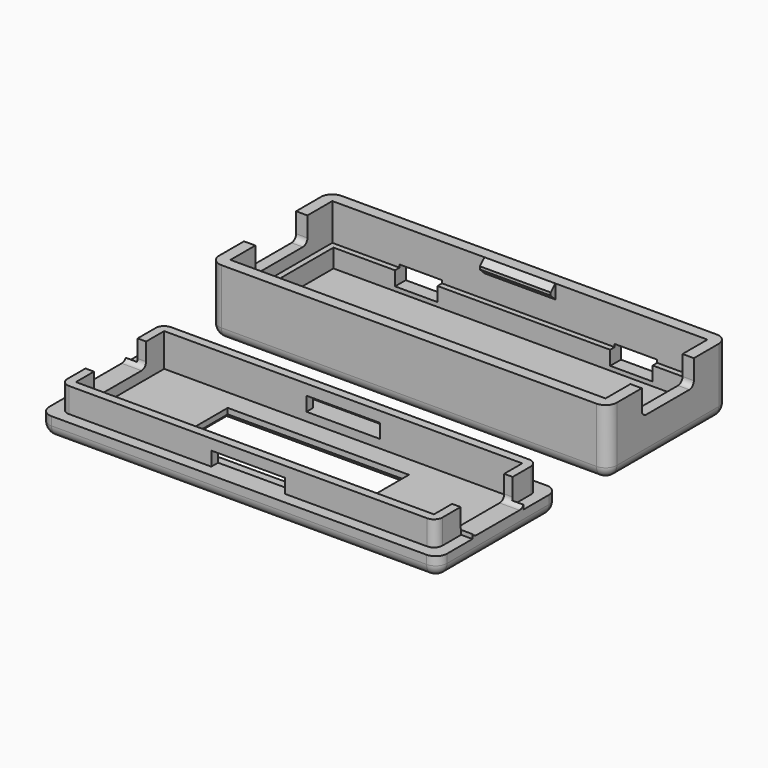
from build123d import *

# Parameters (mm, degrees)
BOX009_W        = 6
BOX009_H        = 10
BOX009_DEPTH    = 2.4
BOX006_W        = 10
BOX006_H        = 9.2
BOX006_DEPTH    = 4
FILLET002_R     = 0.8
BOX019_W        = 10
BOX019_H        = 9.2
BOX019_DEPTH    = 4.6
FILLET003_R     = 0.8
BOX008_W        = 6
BOX008_H        = 10
BOX008_DEPTH    = 2.4
BOX003_W        = 51.4
BOX003_H        = 16.4
BOX003_DEPTH    = 2.6
BOX002_W        = 53
BOX002_H        = 18
BOX002_DEPTH    = 2.6
BOX004_W        = 10
BOX004_H        = 1
BOX004_DEPTH    = 2
CHAMFER_SIZE    = 0.8
BOX005_W        = 10
BOX005_H        = 1
BOX005_DEPTH    = 2
CHAMFER001_SIZE = 0.8
BOX001_W        = 53
BOX001_H        = 18
BOX001_DEPTH    = 9.4
BOX_W           = 56.2
BOX_H           = 21.2
BOX_DEPTH       = 9.4
FILLET_R        = 1.6
CHAMFER002_SIZE = 0.5
BOX017_W        = 10.4
BOX017_H        = 5
BOX017_DEPTH    = 2
BOX018_W        = 10.4
BOX018_H        = 5
BOX018_DEPTH    = 2
BOX020_W        = 10
BOX020_H        = 9.2
BOX020_DEPTH    = 4.6
FILLET004_R     = 0.8
BOX021_W        = 10
BOX021_H        = 9.2
BOX021_DEPTH    = 4.6
FILLET005_R     = 0.8
BOX014_W        = 25.6
BOX014_H        = 9.8
BOX014_DEPTH    = 1.6
BOX013_W        = 50.6
BOX013_H        = 15.6
BOX013_DEPTH    = 4.8
BOX012_W        = 53
BOX012_H        = 18
BOX012_DEPTH    = 4.7
BOX022_W        = 1.6
BOX022_H        = 9
BOX022_DEPTH    = 3
BOX023_W        = 1.6
BOX023_H        = 9
BOX023_DEPTH    = 3
BOX011_W        = 53
BOX011_H        = 18
BOX011_DEPTH    = 9.4
BOX010_W        = 56.2
BOX010_H        = 21.2
BOX010_DEPTH    = 2.8
FILLET001_R     = 1.6
CHAMFER003_SIZE = 0.8
FILLET006_R     = 1.2


with BuildPart() as button2:
    # Box009 → Box009 (new body)
    with BuildSketch(Plane(origin=(39.9, 14, 2.2), x_dir=(1, 0, 0), z_dir=(0, 0, 1))):
        with Locations((3, 5)):
            Rectangle(BOX009_W, BOX009_H)
    extrude(amount=BOX009_DEPTH)


with BuildPart() as usb_buchse1:
    # Box006 → Box006 (new body)
    with BuildSketch(Plane(origin=(-5, 4.4, 5.8), x_dir=(1, 0, 0), z_dir=(0, 0, 1))):
        with Locations((5, 4.6)):
            Rectangle(BOX006_W, BOX006_H)
    extrude(amount=BOX006_DEPTH)

    # Fillet002
    fillet002_edges = [usb_buchse1.edges().sort_by_distance(p)[0] for p in [
        (0, 4.4, 5.8),
        (0, 13.6, 5.8),
    ]]
    fillet(fillet002_edges, radius=FILLET002_R)


with BuildPart() as usb_buchse2:
    # Box019 → Box019 (new body)
    with BuildSketch(Plane(origin=(47, 4.4, 5.8), x_dir=(1, 0, 0), z_dir=(0, 0, 1))):
        with Locations((5, 4.6)):
            Rectangle(BOX019_W, BOX019_H)
    extrude(amount=BOX019_DEPTH)

    # Fillet003
    fillet003_edges = [usb_buchse2.edges().sort_by_distance(p)[0] for p in [
        (52, 4.4, 5.8),
        (52, 13.6, 5.8),
    ]]
    fillet(fillet003_edges, radius=FILLET003_R)


with BuildPart() as bottom_cutouts:
    # Box008 → Box008 (new body)
    with BuildSketch(Plane(origin=(9.5, 14, 2.2), x_dir=(1, 0, 0), z_dir=(0, 0, 1))):
        with Locations((3, 5)):
            Rectangle(BOX008_W, BOX008_H)
    extrude(amount=BOX008_DEPTH)

    # Fusion001: union Button2, USB_Buchse1, USB_Buchse2
    add(button2.part)
    add(usb_buchse1.part)
    add(usb_buchse2.part)


with BuildPart() as auflage_innen:
    # Box003 → Box003 (new body)
    with BuildSketch(Plane(origin=(0.8, 0.8, 1.6), x_dir=(1, 0, 0), z_dir=(0, 0, 1))):
        with Locations((25.7, 8.2)):
            Rectangle(BOX003_W, BOX003_H)
    extrude(amount=BOX003_DEPTH)


with BuildPart() as auflage:
    # Box002 → Box002 (new body)
    with BuildSketch(Plane.XY.offset(1.6)):
        with Locations((26.5, 9)):
            Rectangle(BOX002_W, BOX002_H)
    extrude(amount=BOX002_DEPTH)

    # Cut001: cut Auflage_innen
    add(auflage_innen.part, mode=Mode.SUBTRACT)


with BuildPart() as haken1:
    # Box004 → Box004 (new body)
    with BuildSketch(Plane(origin=(21.5, -0.2, 7.4), x_dir=(1, 0, 0), z_dir=(0, 0, 1))):
        with Locations((5, 0.5)):
            Rectangle(BOX004_W, BOX004_H)
    extrude(amount=BOX004_DEPTH)

    # Chamfer
    chamfer_edges = [haken1.edges().sort_by_distance(p)[0] for p in [
        (26.5, 0.8, 7.4),
        (26.5, 0.8, 9.4),
    ]]
    chamfer(chamfer_edges, length=CHAMFER_SIZE)


with BuildPart() as haken2:
    # Box005 → Box005 (new body)
    with BuildSketch(Plane(origin=(21.5, 17.2, 7.4), x_dir=(1, 0, 0), z_dir=(0, 0, 1))):
        with Locations((5, 0.5)):
            Rectangle(BOX005_W, BOX005_H)
    extrude(amount=BOX005_DEPTH)

    # Chamfer001
    chamfer001_edges = [haken2.edges().sort_by_distance(p)[0] for p in [
        (26.5, 17.2, 7.4),
        (26.5, 17.2, 9.4),
    ]]
    chamfer(chamfer001_edges, length=CHAMFER001_SIZE)


with BuildPart() as unten_innen:
    # Box001 → Box001 (new body)
    with BuildSketch(Plane.XY.offset(1.6)):
        with Locations((26.5, 9)):
            Rectangle(BOX001_W, BOX001_H)
    extrude(amount=BOX001_DEPTH)


with BuildPart() as cover_bottom:
    # Box → Box (new body)
    with BuildSketch(Plane(origin=(-1.6, -1.6, 0), x_dir=(1, 0, 0), z_dir=(0, 0, 1))):
        with Locations((28.1, 10.6)):
            Rectangle(BOX_W, BOX_H)
    extrude(amount=BOX_DEPTH)

    # Cut: cut unten_innen
    add(unten_innen.part, mode=Mode.SUBTRACT)

    # Fillet
    fillet_edges = [cover_bottom.edges().sort_by_distance(p)[0] for p in [
        (-1.6, -1.6, 4.7),
        (-1.6, 19.6, 4.7),
        (-1.6, 9, 0),
        (26.5, -1.6, 0),
        (54.6, -1.6, 4.7),
        (26.5, 19.6, 0),
        (54.6, 19.6, 4.7),
        (54.6, 9, 0),
    ]]
    fillet(fillet_edges, radius=FILLET_R)

    # Fusion: union Auflage, Haken1, Haken2
    add(auflage.part)
    add(haken1.part)
    add(haken2.part)

    # Cut004: cut bottom_cutouts
    add(bottom_cutouts.part, mode=Mode.SUBTRACT)

    # Chamfer002
    chamfer002_edges = [cover_bottom.edges().sort_by_distance(p)[0] for p in [
        (45.9, 19.6, 3.4),
        (42.9, 19.6, 2.2),
        (39.9, 19.6, 3.4),
        (42.9, 19.6, 4.6),
        (9.5, 19.6, 3.4),
        (12.5, 19.6, 4.6),
        (15.5, 19.6, 3.4),
        (12.5, 19.6, 2.2),
    ]]
    chamfer(chamfer002_edges, length=CHAMFER002_SIZE)


with BuildPart() as oese1:
    # Box017 → Box017 (new body)
    with BuildSketch(Plane(origin=(21.3, -33, 2.8), x_dir=(1, 0, 0), z_dir=(0, 0, 1))):
        with Locations((5.2, 2.5)):
            Rectangle(BOX017_W, BOX017_H)
    extrude(amount=BOX017_DEPTH)


with BuildPart() as oese2:
    # Box018 → Box018 (new body)
    with BuildSketch(Plane(origin=(21.3, -15, 2.8), x_dir=(1, 0, 0), z_dir=(0, 0, 1))):
        with Locations((5.2, 2.5)):
            Rectangle(BOX018_W, BOX018_H)
    extrude(amount=BOX018_DEPTH)


with BuildPart() as usb_buchse3:
    # Box020 → Box020 (new body)
    with BuildSketch(Plane(origin=(-5, -25.6, 3), x_dir=(1, 0, 0), z_dir=(0, 0, 1))):
        with Locations((5, 4.6)):
            Rectangle(BOX020_W, BOX020_H)
    extrude(amount=BOX020_DEPTH)

    # Fillet004
    fillet004_edges = [usb_buchse3.edges().sort_by_distance(p)[0] for p in [
        (0, -25.6, 3),
        (0, -16.4, 3),
    ]]
    fillet(fillet004_edges, radius=FILLET004_R)


with BuildPart() as usb_buchse4:
    # Box021 → Box021 (new body)
    with BuildSketch(Plane(origin=(47, -25.6, 3), x_dir=(1, 0, 0), z_dir=(0, 0, 1))):
        with Locations((5, 4.6)):
            Rectangle(BOX021_W, BOX021_H)
    extrude(amount=BOX021_DEPTH)

    # Fillet005
    fillet005_edges = [usb_buchse4.edges().sort_by_distance(p)[0] for p in [
        (52, -25.6, 3),
        (52, -16.4, 3),
    ]]
    fillet(fillet005_edges, radius=FILLET005_R)


with BuildPart() as top_cutouts:
    # Box014 → Box014 (new body)
    with BuildSketch(Plane(origin=(12.5, -25.9, 0), x_dir=(1, 0, 0), z_dir=(0, 0, 1))):
        with Locations((12.8, 4.9)):
            Rectangle(BOX014_W, BOX014_H)
    extrude(amount=BOX014_DEPTH)

    # Fusion003: union Oese1, Oese2, USB-Buchse3, USB-Buchse4
    add(oese1.part)
    add(oese2.part)
    add(usb_buchse3.part)
    add(usb_buchse4.part)


with BuildPart() as rahmen_innen:
    # Box013 → Box013 (new body)
    with BuildSketch(Plane(origin=(1.2, -28.8, 1.6), x_dir=(1, 0, 0), z_dir=(0, 0, 1))):
        with Locations((25.3, 7.8)):
            Rectangle(BOX013_W, BOX013_H)
    extrude(amount=BOX013_DEPTH)


with BuildPart() as rahmen:
    # Box012 → Box012 (new body)
    with BuildSketch(Plane(origin=(0, -30, 1.6), x_dir=(1, 0, 0), z_dir=(0, 0, 1))):
        with Locations((26.5, 9)):
            Rectangle(BOX012_W, BOX012_H)
    extrude(amount=BOX012_DEPTH)

    # Cut003: cut Rahmen_innen
    add(rahmen_innen.part, mode=Mode.SUBTRACT)


with BuildPart() as nut1:
    # Box022 → Box022 (new body)
    with BuildSketch(Plane(origin=(-1.6, -25.5, 2.8), x_dir=(1, 0, 0), z_dir=(0, 0, 1))):
        with Locations((0.8, 4.5)):
            Rectangle(BOX022_W, BOX022_H)
    extrude(amount=BOX022_DEPTH)


with BuildPart() as nut2:
    # Box023 → Box023 (new body)
    with BuildSketch(Plane(origin=(53, -25.5, 2.8), x_dir=(1, 0, 0), z_dir=(0, 0, 1))):
        with Locations((0.8, 4.5)):
            Rectangle(BOX023_W, BOX023_H)
    extrude(amount=BOX023_DEPTH)


with BuildPart() as oben_innen:
    # Box011 → Box011 (new body)
    with BuildSketch(Plane(origin=(0, -30, 1.6), x_dir=(1, 0, 0), z_dir=(0, 0, 1))):
        with Locations((26.5, 9)):
            Rectangle(BOX011_W, BOX011_H)
    extrude(amount=BOX011_DEPTH)


with BuildPart() as cover_top:
    # Box010 → Box010 (new body)
    with BuildSketch(Plane(origin=(-1.6, -31.6, 0), x_dir=(1, 0, 0), z_dir=(0, 0, 1))):
        with Locations((28.1, 10.6)):
            Rectangle(BOX010_W, BOX010_H)
    extrude(amount=BOX010_DEPTH)

    # Cut002: cut oben_innen
    add(oben_innen.part, mode=Mode.SUBTRACT)

    # Fillet001
    fillet001_edges = [cover_top.edges().sort_by_distance(p)[0] for p in [
        (-1.6, -31.6, 1.4),
        (-1.6, -10.4, 1.4),
        (-1.6, -21, 0),
        (26.5, -31.6, 0),
        (54.6, -31.6, 1.4),
        (26.5, -10.4, 0),
        (54.6, -10.4, 1.4),
        (54.6, -21, 0),
    ]]
    fillet(fillet001_edges, radius=FILLET001_R)

    # Fusion002: union Rahmen, Nut1, Nut2
    add(rahmen.part)
    add(nut1.part)
    add(nut2.part)

    # Cut005: cut top_cutouts
    add(top_cutouts.part, mode=Mode.SUBTRACT)

    # Chamfer003
    chamfer003_edges = [cover_top.edges().sort_by_distance(p)[0] for p in [
        (25.3, -16.1, 0),
        (12.5, -21, 0),
        (25.3, -25.9, 0),
        (38.1, -21, 0),
    ]]
    chamfer(chamfer003_edges, length=CHAMFER003_SIZE)

    # Fillet006
    fillet006_edges = [cover_top.edges().sort_by_distance(p)[0] for p in [
        (0, -30, 4.55),
        (53, -30, 4.55),
        (53, -12, 4.55),
        (0, -12, 4.55),
    ]]
    fillet(fillet006_edges, radius=FILLET006_R)


solid = Compound([cover_bottom.part, cover_top.part])
